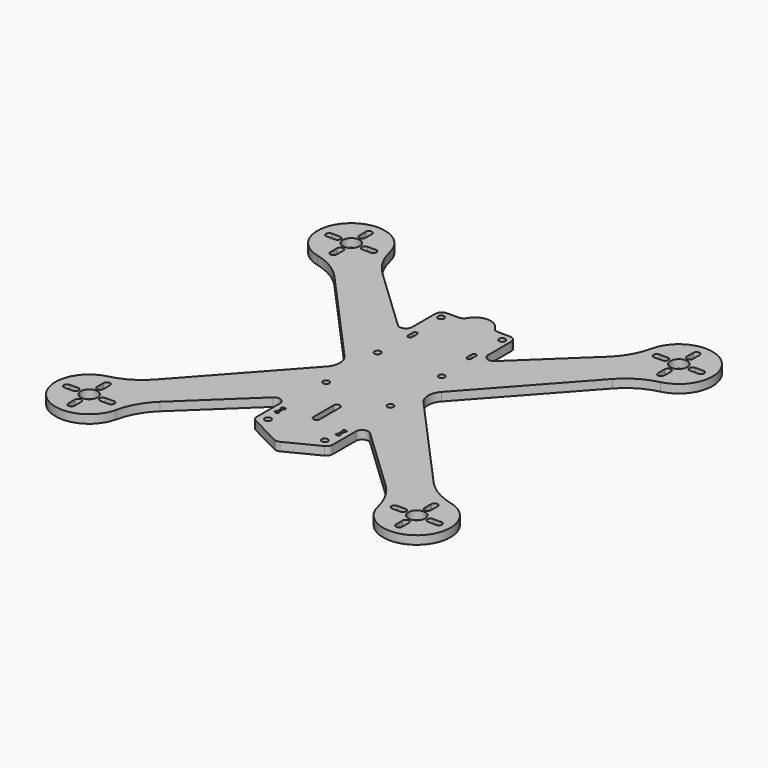
from build123d import *

# Parameters (mm, degrees)
F0_R     = 4
F0_R_2   = 1.5
F1_DEPTH = 4
F3_DEPTH = 4.001
F5_DEPTH = 4
F6_R     = 3


with BuildPart() as f1:
    # F0 (on Top) → F1 (new body)
    with BuildSketch(Plane.XY):
        with BuildLine():
            Line((15, 56), (-15, 56))
            ThreePointArc((-15, 56), (-17.1213203436, 55.1213203436), (-18, 53))
            Line((-18, 53), (-18, 39.2585659306))
            ThreePointArc((-18, 39.2585659306), (-19.8157684308, 36.5021923001), (-23.0650637271, 37.0824428176))
            Line((-23.0650637271, 37.0824428176), (-53.5252919496, 65.9881200948))
            ThreePointArc((-53.5252919496, 65.9881200948), (-58.9834531064, 72.9733353662), (-62.1618881038, 81.2487390765))
            ThreePointArc((-62.1618881038, 81.2487390765), (-89.0262629717, 89.1642252962), (-81.4389504023, 62.2053260771))
            ThreePointArc((-81.4389504023, 62.2053260771), (-73.0219903273, 58.8200394365), (-66.0018640227, 53.0734570426))
            Line((-66.0018640227, 53.0734570426), (-23.0342118897, 5.3530448509))
            ThreePointArc((-23.0342118897, 5.3530448509), (-20.9793704935, 0), (-23.0342118897, -5.3530448509))
            Line((-23.0342118897, -5.3530448509), (-66.0018640227, -53.0734570426))
            ThreePointArc((-66.0018640227, -53.0734570426), (-73.0219903273, -58.8200394365), (-81.4389504023, -62.2053260771))
            ThreePointArc((-81.4389504023, -62.2053260771), (-89.0262629717, -89.1642252962), (-62.1618881038, -81.2487390765))
            ThreePointArc((-62.1618881038, -81.2487390765), (-58.9834531064, -72.9733353662), (-53.5252919496, -65.9881200948))
            Line((-53.5252919496, -65.9881200948), (-23.0650637271, -37.0824428176))
            ThreePointArc((-23.0650637271, -37.0824428176), (-19.8157684308, -36.5021923001), (-18, -39.2585659306))
            Line((-18, -39.2585659306), (-18, -53))
            ThreePointArc((-18, -53), (-17.1213203436, -55.1213203436), (-15, -56))
            Line((-15, -56), (15, -56))
            ThreePointArc((15, -56), (17.1213203436, -55.1213203436), (18, -53))
            Line((18, -53), (18, -39.2585659306))
            ThreePointArc((18, -39.2585659306), (19.8157684308, -36.5021923001), (23.0650637271, -37.0824428176))
            Line((23.0650637271, -37.0824428176), (53.5252919496, -65.9881200948))
            ThreePointArc((53.5252919496, -65.9881200948), (58.9834531064, -72.9733353662), (62.1618881038, -81.2487390765))
            ThreePointArc((62.1618881038, -81.2487390765), (89.0262629717, -89.1642252962), (81.4389504023, -62.2053260771))
            ThreePointArc((81.4389504023, -62.2053260771), (73.0219903273, -58.8200394365), (66.0018640227, -53.0734570426))
            Line((66.0018640227, -53.0734570426), (23.0342118897, -5.3530448509))
            ThreePointArc((23.0342118897, -5.3530448509), (20.9793704935, 0), (23.0342118897, 5.3530448509))
            Line((23.0342118897, 5.3530448509), (66.0018640227, 53.0734570426))
            ThreePointArc((66.0018640227, 53.0734570426), (73.0219903273, 58.8200394365), (81.4389504023, 62.2053260771))
            ThreePointArc((81.4389504023, 62.2053260771), (89.0262629717, 89.1642252962), (62.1618881038, 81.2487390765))
            ThreePointArc((62.1618881038, 81.2487390765), (58.9834531064, 72.9733353662), (53.5252919496, 65.9881200948))
            Line((53.5252919496, 65.9881200948), (23.0650637271, 37.0824428176))
            ThreePointArc((23.0650637271, 37.0824428176), (19.8157684308, 36.5021923001), (18, 39.2585659306))
            Line((18, 39.2585659306), (18, 53))
            ThreePointArc((18, 53), (17.1213203436, 55.1213203436), (15, 56))
        make_face()
        with BuildLine():
            ThreePointArc((-79.2817459305, -84.2817459305), (-77.7817459305, -82.7817459305), (-76.2817459305, -84.2817459305))
            Line((-76.2817459305, -84.2817459305), (-76.2817459305, -88.2817459305))
            ThreePointArc((-76.2817459305, -88.2817459305), (-77.7817459305, -89.7817459305), (-79.2817459305, -88.2817459305))
            Line((-79.2817459305, -88.2817459305), (-79.2817459305, -84.2817459305))
        make_face(mode=Mode.SUBTRACT)
        with BuildLine():
            Line((-84.2817459305, -79.2817459305), (-88.2817459305, -79.2817459305))
            ThreePointArc((-88.2817459305, -79.2817459305), (-89.7817459305, -77.7817459305), (-88.2817459305, -76.2817459305))
            Line((-88.2817459305, -76.2817459305), (-84.2817459305, -76.2817459305))
            ThreePointArc((-84.2817459305, -76.2817459305), (-82.7817459305, -77.7817459305), (-84.2817459305, -79.2817459305))
        make_face(mode=Mode.SUBTRACT)
        with Locations((-77.7817459305, -77.7817459305)):
            Circle(F0_R, mode=Mode.SUBTRACT)
        with BuildLine():
            ThreePointArc((-67.2817459305, -76.2817459305), (-65.7817459305, -77.7817459305), (-67.2817459305, -79.2817459305))
            Line((-67.2817459305, -79.2817459305), (-71.2817459305, -79.2817459305))
            ThreePointArc((-71.2817459305, -79.2817459305), (-72.7817459305, -77.7817459305), (-71.2817459305, -76.2817459305))
            Line((-71.2817459305, -76.2817459305), (-67.2817459305, -76.2817459305))
        make_face(mode=Mode.SUBTRACT)
        with BuildLine():
            ThreePointArc((-79.2817459305, -67.2817459305), (-77.7817459305, -65.7817459305), (-76.2817459305, -67.2817459305))
            Line((-76.2817459305, -67.2817459305), (-76.2817459305, -71.2817459305))
            ThreePointArc((-76.2817459305, -71.2817459305), (-77.7817459305, -72.7817459305), (-79.2817459305, -71.2817459305))
            Line((-79.2817459305, -71.2817459305), (-79.2817459305, -67.2817459305))
        make_face(mode=Mode.SUBTRACT)
        with Locations((-13.5, -52)):
            Circle(F0_R_2, mode=Mode.SUBTRACT)
        with Locations((-15.25, -15.25)):
            Circle(F0_R_2, mode=Mode.SUBTRACT)
        with Locations((13.5, -52)):
            Circle(F0_R_2, mode=Mode.SUBTRACT)
        with BuildLine():
            ThreePointArc((67.2817459305, -79.2817459305), (65.7817459305, -77.7817459305), (67.2817459305, -76.2817459305))
            Line((67.2817459305, -76.2817459305), (71.2817459305, -76.2817459305))
            ThreePointArc((71.2817459305, -76.2817459305), (72.7817459305, -77.7817459305), (71.2817459305, -79.2817459305))
            Line((71.2817459305, -79.2817459305), (67.2817459305, -79.2817459305))
        make_face(mode=Mode.SUBTRACT)
        with BuildLine():
            Line((79.2817459305, -84.2817459305), (79.2817459305, -88.2817459305))
            ThreePointArc((79.2817459305, -88.2817459305), (77.7817459305, -89.7817459305), (76.2817459305, -88.2817459305))
            Line((76.2817459305, -88.2817459305), (76.2817459305, -84.2817459305))
            ThreePointArc((76.2817459305, -84.2817459305), (77.7817459305, -82.7817459305), (79.2817459305, -84.2817459305))
        make_face(mode=Mode.SUBTRACT)
        with Locations((77.7817459305, -77.7817459305)):
            Circle(F0_R, mode=Mode.SUBTRACT)
        with BuildLine():
            ThreePointArc((84.2817459305, -79.2817459305), (82.7817459305, -77.7817459305), (84.2817459305, -76.2817459305))
            Line((84.2817459305, -76.2817459305), (88.2817459305, -76.2817459305))
            ThreePointArc((88.2817459305, -76.2817459305), (89.7817459305, -77.7817459305), (88.2817459305, -79.2817459305))
            Line((88.2817459305, -79.2817459305), (84.2817459305, -79.2817459305))
        make_face(mode=Mode.SUBTRACT)
        with BuildLine():
            ThreePointArc((76.2817459305, -67.2817459305), (77.7817459305, -65.7817459305), (79.2817459305, -67.2817459305))
            Line((79.2817459305, -67.2817459305), (79.2817459305, -71.2817459305))
            ThreePointArc((79.2817459305, -71.2817459305), (77.7817459305, -72.7817459305), (76.2817459305, -71.2817459305))
            Line((76.2817459305, -71.2817459305), (76.2817459305, -67.2817459305))
        make_face(mode=Mode.SUBTRACT)
        with BuildLine():
            ThreePointArc((-1.5, -28), (0, -26.5), (1.5, -28))
            Line((1.5, -28), (1.5, -40))
            ThreePointArc((1.5, -40), (0, -41.5), (-1.5, -40))
            Line((-1.5, -40), (-1.5, -28))
        make_face(mode=Mode.SUBTRACT)
        with Locations((15.25, -15.25)):
            Circle(F0_R_2, mode=Mode.SUBTRACT)
        with Locations((-15.25, 15.25)):
            Circle(F0_R_2, mode=Mode.SUBTRACT)
        with BuildLine():
            ThreePointArc((-15, 36), (-14, 37), (-13, 36))
            Line((-13, 36), (-13, 33))
            ThreePointArc((-13, 33), (-14, 32), (-15, 33))
            Line((-15, 33), (-15, 36))
        make_face(mode=Mode.SUBTRACT)
        with BuildLine():
            ThreePointArc((-76.2817459305, 67.2817459305), (-77.7817459305, 65.7817459305), (-79.2817459305, 67.2817459305))
            Line((-79.2817459305, 67.2817459305), (-79.2817459305, 71.2817459305))
            ThreePointArc((-79.2817459305, 71.2817459305), (-77.7817459305, 72.7817459305), (-76.2817459305, 71.2817459305))
            Line((-76.2817459305, 71.2817459305), (-76.2817459305, 67.2817459305))
        make_face(mode=Mode.SUBTRACT)
        with BuildLine():
            ThreePointArc((-88.2817459305, 76.2817459305), (-89.7817459305, 77.7817459305), (-88.2817459305, 79.2817459305))
            Line((-88.2817459305, 79.2817459305), (-84.2817459305, 79.2817459305))
            ThreePointArc((-84.2817459305, 79.2817459305), (-82.7817459305, 77.7817459305), (-84.2817459305, 76.2817459305))
            Line((-84.2817459305, 76.2817459305), (-88.2817459305, 76.2817459305))
        make_face(mode=Mode.SUBTRACT)
        with Locations((-77.7817459305, 77.7817459305)):
            Circle(F0_R, mode=Mode.SUBTRACT)
        with BuildLine():
            ThreePointArc((-76.2817459305, 84.2817459305), (-77.7817459305, 82.7817459305), (-79.2817459305, 84.2817459305))
            Line((-79.2817459305, 84.2817459305), (-79.2817459305, 88.2817459305))
            ThreePointArc((-79.2817459305, 88.2817459305), (-77.7817459305, 89.7817459305), (-76.2817459305, 88.2817459305))
            Line((-76.2817459305, 88.2817459305), (-76.2817459305, 84.2817459305))
        make_face(mode=Mode.SUBTRACT)
        with BuildLine():
            ThreePointArc((-67.2817459305, 79.2817459305), (-65.7817459305, 77.7817459305), (-67.2817459305, 76.2817459305))
            Line((-67.2817459305, 76.2817459305), (-71.2817459305, 76.2817459305))
            ThreePointArc((-71.2817459305, 76.2817459305), (-72.7817459305, 77.7817459305), (-71.2817459305, 79.2817459305))
            Line((-71.2817459305, 79.2817459305), (-67.2817459305, 79.2817459305))
        make_face(mode=Mode.SUBTRACT)
        with Locations((-14.5, 52)):
            Circle(F0_R_2, mode=Mode.SUBTRACT)
        with Locations((15.25, 15.25)):
            Circle(F0_R_2, mode=Mode.SUBTRACT)
        with BuildLine():
            Line((13, 33), (13, 36))
            ThreePointArc((13, 36), (14, 37), (15, 36))
            Line((15, 36), (15, 33))
            ThreePointArc((15, 33), (14, 32), (13, 33))
        make_face(mode=Mode.SUBTRACT)
        with Locations((14.5, 52)):
            Circle(F0_R_2, mode=Mode.SUBTRACT)
        with BuildLine():
            ThreePointArc((79.2817459305, 67.2817459305), (77.7817459305, 65.7817459305), (76.2817459305, 67.2817459305))
            Line((76.2817459305, 67.2817459305), (76.2817459305, 71.2817459305))
            ThreePointArc((76.2817459305, 71.2817459305), (77.7817459305, 72.7817459305), (79.2817459305, 71.2817459305))
            Line((79.2817459305, 71.2817459305), (79.2817459305, 67.2817459305))
        make_face(mode=Mode.SUBTRACT)
        with BuildLine():
            ThreePointArc((67.2817459305, 76.2817459305), (65.7817459305, 77.7817459305), (67.2817459305, 79.2817459305))
            Line((67.2817459305, 79.2817459305), (71.2817459305, 79.2817459305))
            ThreePointArc((71.2817459305, 79.2817459305), (72.7817459305, 77.7817459305), (71.2817459305, 76.2817459305))
            Line((71.2817459305, 76.2817459305), (67.2817459305, 76.2817459305))
        make_face(mode=Mode.SUBTRACT)
        with Locations((77.7817459305, 77.7817459305)):
            Circle(F0_R, mode=Mode.SUBTRACT)
        with BuildLine():
            Line((84.2817459305, 79.2817459305), (88.2817459305, 79.2817459305))
            ThreePointArc((88.2817459305, 79.2817459305), (89.7817459305, 77.7817459305), (88.2817459305, 76.2817459305))
            Line((88.2817459305, 76.2817459305), (84.2817459305, 76.2817459305))
            ThreePointArc((84.2817459305, 76.2817459305), (82.7817459305, 77.7817459305), (84.2817459305, 79.2817459305))
        make_face(mode=Mode.SUBTRACT)
        with BuildLine():
            ThreePointArc((79.2817459305, 84.2817459305), (77.7817459305, 82.7817459305), (76.2817459305, 84.2817459305))
            Line((76.2817459305, 84.2817459305), (76.2817459305, 88.2817459305))
            ThreePointArc((76.2817459305, 88.2817459305), (77.7817459305, 89.7817459305), (79.2817459305, 88.2817459305))
            Line((79.2817459305, 88.2817459305), (79.2817459305, 84.2817459305))
        make_face(mode=Mode.SUBTRACT)
    extrude(amount=F1_DEPTH)

    # F2 (on face) → F3 (cut, through all)
    with BuildSketch(Plane.XY.offset(4)):
        with BuildLine():
            Line((-14, -41), (-15, -41))
            ThreePointArc((-15, -41), (-15.5, -41.5), (-15, -42))
            Line((-15, -42), (-15, -45))
            ThreePointArc((-15, -45), (-15.5, -45.5), (-15, -46))
            Line((-15, -46), (-14, -46))
            ThreePointArc((-14, -46), (-13.5, -45.5), (-14, -45))
            Line((-14, -45), (-14, -42))
            ThreePointArc((-14, -42), (-13.5, -41.5), (-14, -41))
        make_face()
        with BuildLine():
            ThreePointArc((15, -46), (15.5, -45.5), (15, -45))
            Line((15, -45), (15, -42))
            ThreePointArc((15, -42), (15.5, -41.5), (15, -41))
            Line((15, -41), (14, -41))
            ThreePointArc((14, -41), (13.5, -41.5), (14, -42))
            Line((14, -42), (14, -45))
            ThreePointArc((14, -45), (13.5, -45.5), (14, -46))
            Line((14, -46), (15, -46))
        make_face()
    extrude(amount=-F3_DEPTH, mode=Mode.SUBTRACT)

    # F4 (on face) → F5 (join)
    with BuildSketch(Plane.XY.offset(4)):
        with BuildLine():
            ThreePointArc((-15, -56), (-15.6996380502, -55.9172772578), (-16.3606921149, -55.6736710658))
            Line((-16.3606921149, -55.6736710658), (-1.3606921149, -63.3075127844))
            ThreePointArc((-1.3606921149, -63.3075127844), (0, -63.6338417186), (1.3606921149, -63.3075127844))
            Line((1.3606921149, -63.3075127844), (16.3606921149, -55.6736710658))
            ThreePointArc((16.3606921149, -55.6736710658), (15.6996380502, -55.9172772578), (15, -56))
            Line((15, -56), (-15, -56))
        make_face()
        with BuildLine():
            ThreePointArc((7.2284161474, 56), (0, 61.5), (-7.2284161474, 56))
            Line((-7.2284161474, 56), (7.2284161474, 56))
        make_face()
    extrude(amount=-F5_DEPTH)

    # F6
    f6_edges = [f1.edges().sort_by_distance(p)[0] for p in [
        (-7.228416, 56, 2),
        (7.228416, 56, 2),
    ]]
    fillet(f6_edges, radius=F6_R)


solid = f1.part
